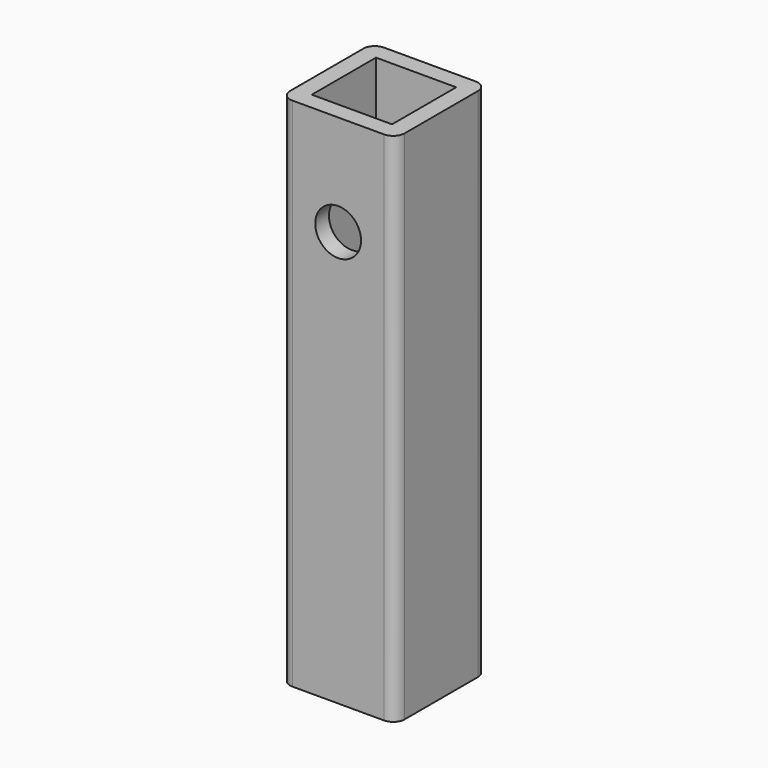
from build123d import *

# Parameters (mm, degrees)
F0_W     = 20
F0_H     = 20
F0_W_2   = 14
F0_H_2   = 14
F1_DEPTH = 90
F2_R     = 2
F4_D     = 8


with BuildPart() as f1:
    # F0 (on Top) → F1 (new body)
    with BuildSketch(Plane.XY):
        Rectangle(F0_W, F0_H)
        Rectangle(F0_W_2, F0_H_2, mode=Mode.SUBTRACT)
    extrude(amount=F1_DEPTH)

    # F2
    f2_edges = [f1.edges().sort_by_distance(p)[0] for p in [
        (10, -10, 45),
        (10, 10, 45),
        (-10, -10, 45),
        (-10, 10, 45),
    ]]
    fillet(f2_edges, radius=F2_R)

    # F4 (through all)
    with Locations(Plane(origin=(0, 10, 0), x_dir=(-1, 0, 0), z_dir=(0, 1, 0))):
        with Locations((0, 72.4)):
            Hole(F4_D / 2)


solid = f1.part
